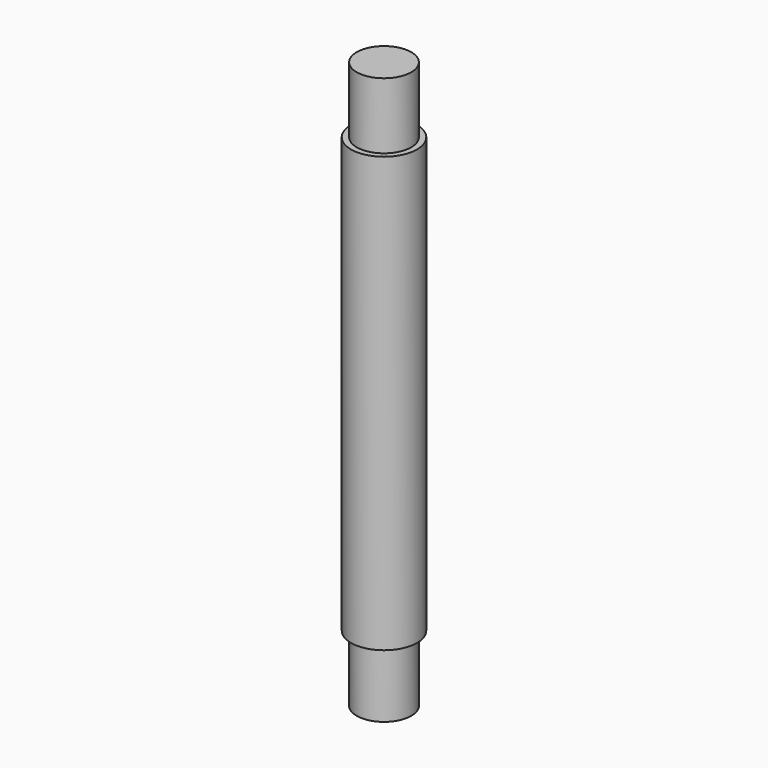
from build123d import *

# Parameters (mm, degrees)
SKETCH042_R       = 4
PAD018_DEPTH      = 18.8
SKETCH045_R       = 3.3
PAD019_DEPTH      = 8
SKETCH050_R       = 4
PAD021_DEPTH      = 33.8
CYLINDER003_R     = 3.3
CYLINDER003_DEPTH = 8


with BuildPart() as part:
    # Sketch042 (on DatumPlane) → Pad018 (new body)
    with BuildSketch(Plane(origin=(0, 0, 18.8), x_dir=(0, 1, 0), z_dir=(0, 0, 1))):
        Circle(SKETCH042_R)
    extrude(amount=-PAD018_DEPTH)

    # Sketch045 (on Face2 of Pad018) → Pad019 (join)
    with BuildSketch(Plane(origin=(0, 0, 18.8), x_dir=(0, 1, 0), z_dir=(0, 0, 1))):
        Circle(SKETCH045_R)
    extrude(amount=PAD019_DEPTH)

    # Sketch050 (on Face3 of Pad019) → Pad021 (join)
    with BuildSketch(Plane.YX):
        Circle(SKETCH050_R)
    extrude(amount=PAD021_DEPTH)

    # Cylinder003 → Cylinder003 (join)
    with BuildSketch(Plane.YX.offset(33.8)):
        Circle(CYLINDER003_R)
    extrude(amount=CYLINDER003_DEPTH)


solid = part.part
